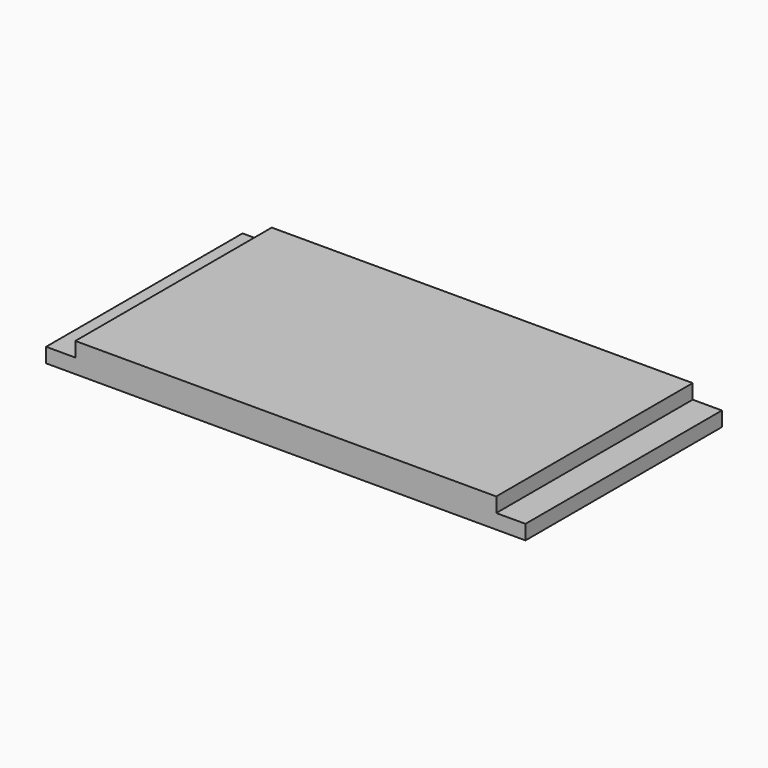
from build123d import *

# Parameters (mm, degrees)
SKETCH_W     = 82
SKETCH_H     = 42
PAD_DEPTH    = 5
SKETCH001_W  = 5
SKETCH001_H  = 42
POCKET_DEPTH = 2.5


with BuildPart() as part:
    # Sketch → Pad (new body)
    with BuildSketch(Plane.XY):
        Rectangle(SKETCH_W, SKETCH_H)
    extrude(amount=PAD_DEPTH)

    # Sketch001 → Pocket (cut)
    with BuildSketch(Plane.XY.offset(5)):
        with Locations((-38.5, 0)):
            Rectangle(SKETCH001_W, SKETCH001_H)
        with Locations((38.5, 0)):
            Rectangle(SKETCH001_W, SKETCH001_H)
    extrude(amount=-POCKET_DEPTH, mode=Mode.SUBTRACT)


solid = part.part
